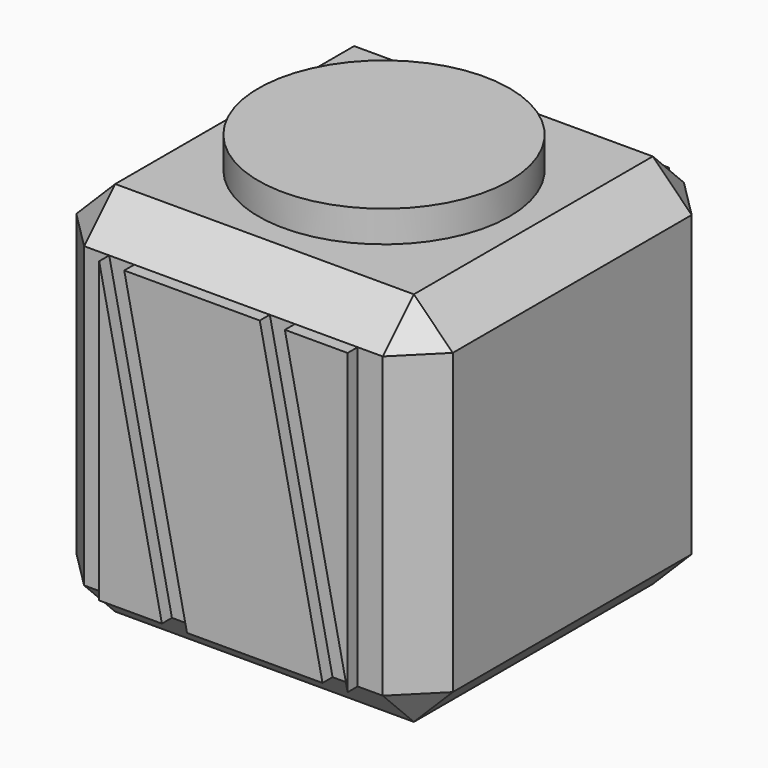
from build123d import *

# Parameters (mm, degrees)
F0_W     = 30
F0_H     = 30
F1_DEPTH = 30
F2_SIZE  = 3.1
F3_R     = 10
F4_DEPTH = 32.5
F6_DEPTH = 1
F8_DEPTH = 1


with BuildPart() as f1:
    # F0 (on Top) → F1 (new body)
    with BuildSketch(Plane.XY):
        Rectangle(F0_W, F0_H)
    extrude(amount=F1_DEPTH)

    # F2
    f2_edges = [f1.edges().sort_by_distance(p)[0] for p in [
        (0, -15, 30),
        (15, 0, 30),
        (15, -15, 15),
        (-15, 0, 0),
        (0, 15, 0),
        (-15, 15, 15),
        (0, 15, 30),
        (15, 15, 15),
        (-15, -15, 15),
        (0, -15, 0),
        (15, 0, 0),
        (-15, 0, 30),
    ]]
    chamfer(f2_edges, length=F2_SIZE)

    # F3 (on Top) → F4 (join)
    with BuildSketch(Plane.XY):
        Circle(F3_R)
    extrude(amount=F4_DEPTH)

    # F5 (on face) → F6 (join)
    with BuildSketch(Plane.XZ.offset(15)):
        Polygon((-9.9, 26.9), (-9.9, 3.1), (-4.9, 3.1), align=None)
        Polygon((9.9, 3.1), (9.9, 26.9), (4.9, 26.9), align=None)
        Polygon((-7.9, 26.9), (-2.9, 3.1), (7.9, 3.1), (2.9, 26.9), align=None)
    extrude(amount=F6_DEPTH)

    # F7 (on face) → F8 (join)
    with BuildSketch(Plane(origin=(0, 15, 0), x_dir=(-1, 0, 0), z_dir=(0, 1, 0))):
        Polygon((-2.9, 26.9), (-7.9, 3.1), (2.9, 3.1), (7.9, 26.9), align=None)
        Polygon((9.9, 26.9), (4.9, 3.1), (9.9, 3.1), align=None)
        Polygon((-4.9, 26.9), (-9.9, 26.9), (-9.9, 3.1), align=None)
    extrude(amount=F8_DEPTH)


solid = f1.part
